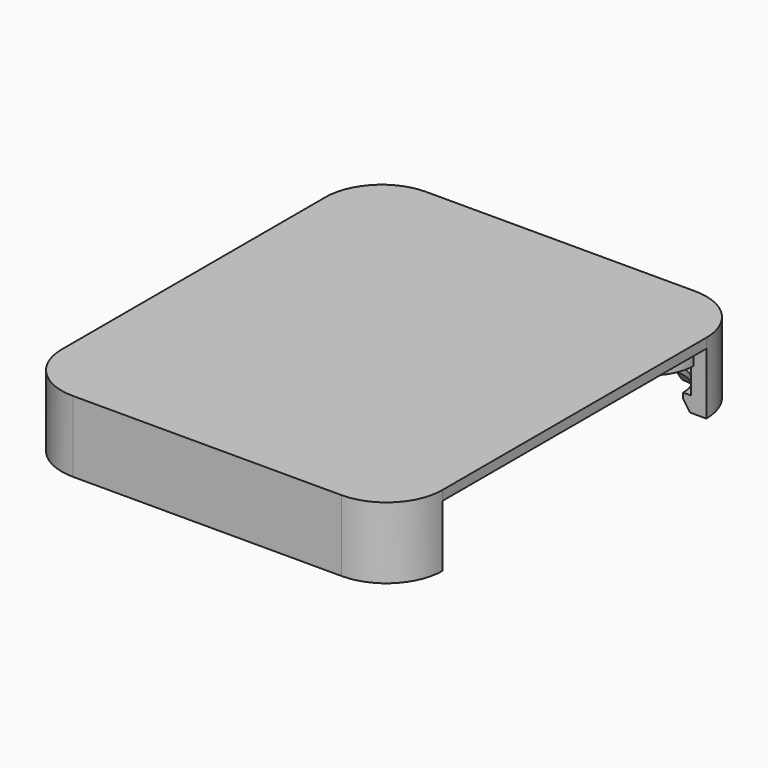
from build123d import *

# Parameters (mm, degrees)
PAD003_START    = 9
PAD003_DEPTH    = 0.5
PAD004_START    = 5.8
PAD004_DEPTH    = 3.6
PAD005_START    = 8
SKETCH016_R     = 2.25
PAD005_DEPTH    = 1.4
PAD006_START    = 5.8
PAD006_DEPTH    = 0.8
CHAMFER_1_ANGLE = 35
CHAMFER_1_SIZE  = 0.5
CHAMFER_2_ANGLE = 35
CHAMFER_2_SIZE  = 0.5
CHAMFER_3_ANGLE = 35
CHAMFER_3_SIZE  = 0.5
CHAMFER_4_ANGLE = 35
CHAMFER_4_SIZE  = 0.5
PAD016_START    = 5.8
SKETCH036_W     = 13.969912
SKETCH036_H     = 0.849896
PAD016_DEPTH    = 3.2


with BuildPart() as part:
    # Sketch015 → Pad003 (new body)
    with BuildSketch(Plane.XY.offset(PAD003_START)):
        with BuildLine():
            Line((-14.443556, 5.426659), (-0.473644, 5.426659))
            ThreePointArc((-0.473644, 5.426659), (1.580532, 6.277526), (2.4314, 8.331703))
            Line((2.4314, 8.331703), (2.4314, 25.476615))
            ThreePointArc((2.4314, 25.476615), (1.580532, 27.530791), (-0.473644, 28.381659))
            Line((-0.473644, 28.381659), (-14.443556, 28.381659))
            ThreePointArc((-14.443556, 28.381659), (-16.497732, 27.530791), (-17.3486, 25.476615))
            Line((-17.3486, 25.476615), (-17.3486, 8.331703))
            ThreePointArc((-17.3486, 8.331703), (-16.497732, 6.277526), (-14.443556, 5.426659))
        make_face()
    extrude(amount=PAD003_DEPTH)

    # Sketch014 → Pad004 (join)
    with BuildSketch(Plane.XY.offset(PAD004_START)):
        with BuildLine():
            ThreePointArc((-14.4436, 28.381659), (-16.497748, 27.530775), (-17.3486, 25.476615))
            Line((-16.5486, 25.476659), (-17.3486, 25.476615))
            ThreePointArc((-14.4436, 27.581659), (-15.932047, 26.965106), (-16.5486, 25.476659))
            Line((-14.4436, 27.581659), (-14.4436, 28.381659))
        make_face()
        with BuildLine():
            ThreePointArc((2.4314, 25.476615), (1.580548, 27.530775), (-0.4736, 28.381659))
            Line((-0.4736, 28.381659), (-0.4736, 27.581659))
            ThreePointArc((1.6314, 25.476615), (1.014862, 26.96509), (-0.4736, 27.581659))
            Line((1.6314, 25.476615), (2.4314, 25.476615))
        make_face()
        with BuildLine():
            ThreePointArc((-17.3486, 8.331659), (-16.497717, 6.277511), (-14.443556, 5.426659))
            Line((-14.443556, 6.226659), (-14.443556, 5.426659))
            ThreePointArc((-16.5486, 8.331659), (-15.932031, 6.843196), (-14.443556, 6.226659))
            Line((-17.3486, 8.331659), (-16.5486, 8.331659))
        make_face()
        with BuildLine():
            ThreePointArc((-0.473644, 5.426659), (1.580532, 6.277526), (2.4314, 8.331703))
            Line((1.6314, 8.331703), (2.4314, 8.331703))
            ThreePointArc((-0.473644, 6.226659), (1.014847, 6.843212), (1.6314, 8.331703))
            Line((-0.473644, 6.226659), (-0.473644, 5.426659))
        make_face()
    extrude(amount=PAD004_DEPTH)

    # Sketch016 → Pad005 (join)
    with BuildSketch(Plane.XY.offset(PAD005_START)):
        with Locations((-14.443556, 8.331703)):
            Circle(SKETCH016_R)
        with Locations((-0.473644, 8.331703)):
            Circle(SKETCH016_R)
        with Locations((-0.473644, 25.476615)):
            Circle(SKETCH016_R)
        with Locations((-14.443556, 25.476615)):
            Circle(SKETCH016_R)
    extrude(amount=PAD005_DEPTH)

    # Sketch017 → Pad006 (join)
    with BuildSketch(Plane.XY.offset(PAD006_START)):
        with BuildLine():
            ThreePointArc((-17.3486, 8.331659), (-16.497717, 6.277511), (-14.443556, 5.426659))
            Line((-14.443556, 5.426659), (-14.443556, 6.626659))
            ThreePointArc((-16.1486, 8.331659), (-15.649189, 7.126039), (-14.443556, 6.626659))
            Line((-17.3486, 8.331659), (-16.1486, 8.331659))
        make_face()
        with BuildLine():
            ThreePointArc((-0.473644, 5.426659), (1.580532, 6.277526), (2.4314, 8.331703))
            Line((2.4314, 8.331703), (1.2314, 8.331703))
            ThreePointArc((-0.473644, 6.626659), (0.732004, 7.126055), (1.2314, 8.331703))
            Line((-0.473644, 5.426659), (-0.473644, 6.626659))
        make_face()
        with BuildLine():
            ThreePointArc((2.4314, 25.476615), (1.580548, 27.530775), (-0.4736, 28.381659))
            Line((-0.4736, 28.381659), (-0.4736, 27.181659))
            ThreePointArc((1.2314, 25.476615), (0.73202, 26.682247), (-0.4736, 27.181659))
            Line((2.4314, 25.476615), (1.2314, 25.476615))
        make_face()
        with BuildLine():
            ThreePointArc((-14.4436, 28.381659), (-16.497748, 27.530775), (-17.3486, 25.476615))
            Line((-16.1486, 25.476659), (-17.3486, 25.476615))
            ThreePointArc((-14.4436, 27.181659), (-15.649204, 26.682263), (-16.1486, 25.476659))
            Line((-14.4436, 28.381659), (-14.4436, 27.181659))
        make_face()
    extrude(amount=PAD006_DEPTH)

    # Chamfer 1
    chamfer_1_edges = [part.edges().sort_by_distance(p)[0] for p in [
        (0.732004, 7.126055, 5.8),
    ]]
    chamfer_1_side = part.faces().sort_by_distance((0.732004, 7.126055, 6.2))[0]
    chamfer(chamfer_1_edges, length=CHAMFER_1_SIZE, angle=CHAMFER_1_ANGLE, reference=chamfer_1_side)

    # Chamfer 2
    chamfer_2_edges = [part.edges().sort_by_distance(p)[0] for p in [
        (-15.649189, 7.126039, 5.8),
    ]]
    chamfer_2_side = part.faces().sort_by_distance((-15.649189, 7.126039, 6.2))[0]
    chamfer(chamfer_2_edges, length=CHAMFER_2_SIZE, angle=CHAMFER_2_ANGLE, reference=chamfer_2_side)

    # Chamfer 3
    chamfer_3_edges = [part.edges().sort_by_distance(p)[0] for p in [
        (-15.649204, 26.682263, 5.8),
    ]]
    chamfer_3_side = part.faces().sort_by_distance((-15.649204, 26.682263, 6.2))[0]
    chamfer(chamfer_3_edges, length=CHAMFER_3_SIZE, angle=CHAMFER_3_ANGLE, reference=chamfer_3_side)

    # Chamfer 4
    chamfer_4_edges = [part.edges().sort_by_distance(p)[0] for p in [
        (0.73202, 26.682247, 5.8),
    ]]
    chamfer_4_side = part.faces().sort_by_distance((0.73202, 26.682247, 6.2))[0]
    chamfer(chamfer_4_edges, length=CHAMFER_4_SIZE, angle=CHAMFER_4_ANGLE, reference=chamfer_4_side)

    # Sketch036 → Pad016 (join)
    with BuildSketch(Plane.XY.offset(PAD016_START)):
        with Locations((-7.4586, 5.851607)):
            Rectangle(SKETCH036_W, SKETCH036_H)
    extrude(amount=PAD016_DEPTH)


with BuildPart() as part_1:
    # Body003 placement: moved
    add(part.part.moved(Location((0, 0, -0.2))))


solid = part_1.part
